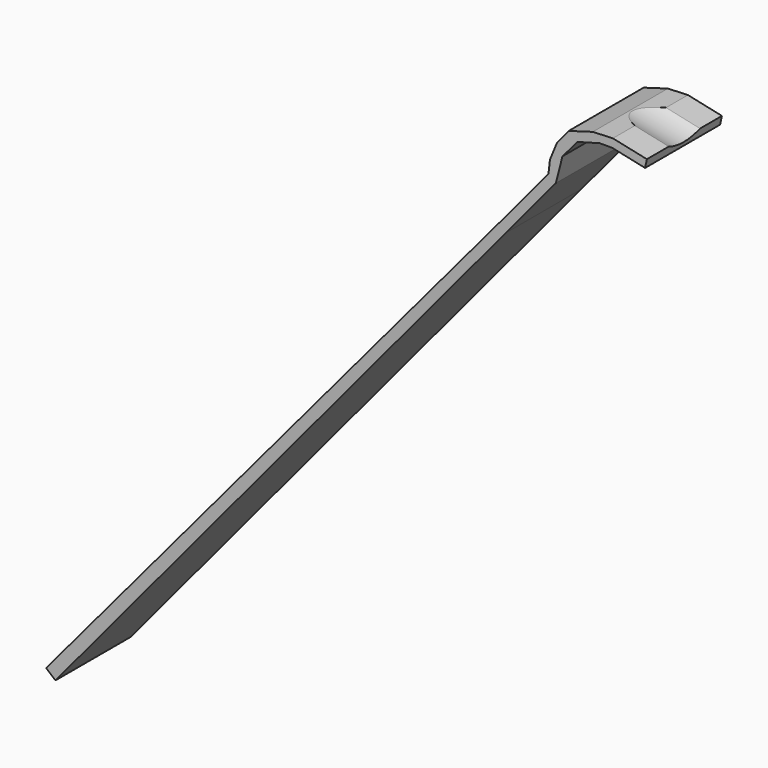
from build123d import *

# Parameters (mm, degrees)
F1_DEPTH = 12
F2_R     = 5.693986391
F3_DEPTH = 25


with BuildPart() as f1:
    # F0 (on Front) → F1 (new body)
    with BuildSketch(Plane.XZ):
        Polygon((43.1391684692, 59.1907990696), (44.0610339195, 58.4225776877), (50.4628787681, 66.1047897738), (51.3008911789, 69.3923764793), (53.2347661155, 71.6485641417), (56.0711156375, 72.4221132878), (57.6826776305, 72.4221132878), (61.8727392483, 71.5196384845), (62.1016667358, 72.5825161129), (57.7519780281, 73.5193721353), (55.1829122918, 73.4112258431), (52.0887128251, 72.5087506037), (50.6060758829, 70.7038009971), (49.7036008615, 68.5120759454), (49.510213466, 66.8360513418), align=None)
        Polygon((-13.5555697176, -10.7173310866), (44.0610339195, 58.4225776877), (43.1391684692, 59.1907990696), (-14.7572108049, -9.7159632881), align=None)
    extrude(amount=F1_DEPTH)

    # F2 (on face) → F3 (cut)
    with BuildSketch(Plane(origin=(44.4083811166, 0, -9.5648820156), x_dir=(0, 1, 0), z_dir=(0.9775817815, 0, -0.2105560744))):
        with Locations((-6, 89.1483053565)):
            Circle(F2_R)
    extrude(amount=-F3_DEPTH, mode=Mode.SUBTRACT)


solid = f1.part
